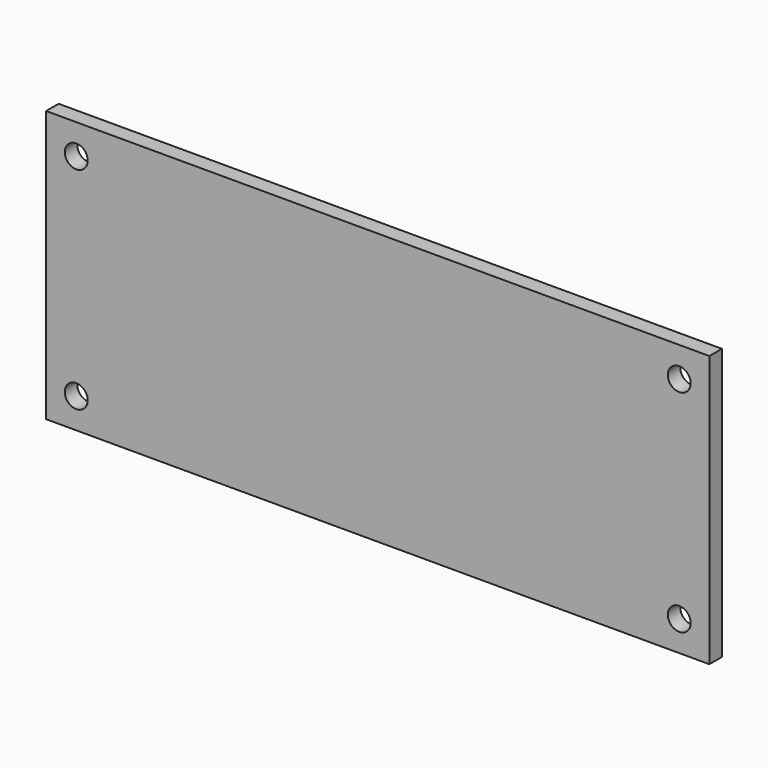
from build123d import *

# Parameters (mm, degrees)
F0_W     = 139.7
F0_H     = 57.15
F1_DEPTH = 1.651
F2_R     = 2.413
F3_DEPTH = 12.7


with BuildPart() as f1:
    # F0 (on Front) → F1 (new body, symmetric)
    with BuildSketch(Plane.XZ):
        Rectangle(F0_W, F0_H)
    extrude(amount=F1_DEPTH, both=True)

    # F2 (on face) → F3 (cut, symmetric)
    with BuildSketch(Plane.XZ.offset(1.651)):
        with Locations((-63.5, 22.225)):
            Circle(F2_R)
        with Locations((-63.5, -22.225)):
            Circle(F2_R)
        with Locations((63.5, -22.225)):
            Circle(F2_R)
        with Locations((63.5, 22.225)):
            Circle(F2_R)
    extrude(amount=F3_DEPTH, both=True, mode=Mode.SUBTRACT)


solid = f1.part
